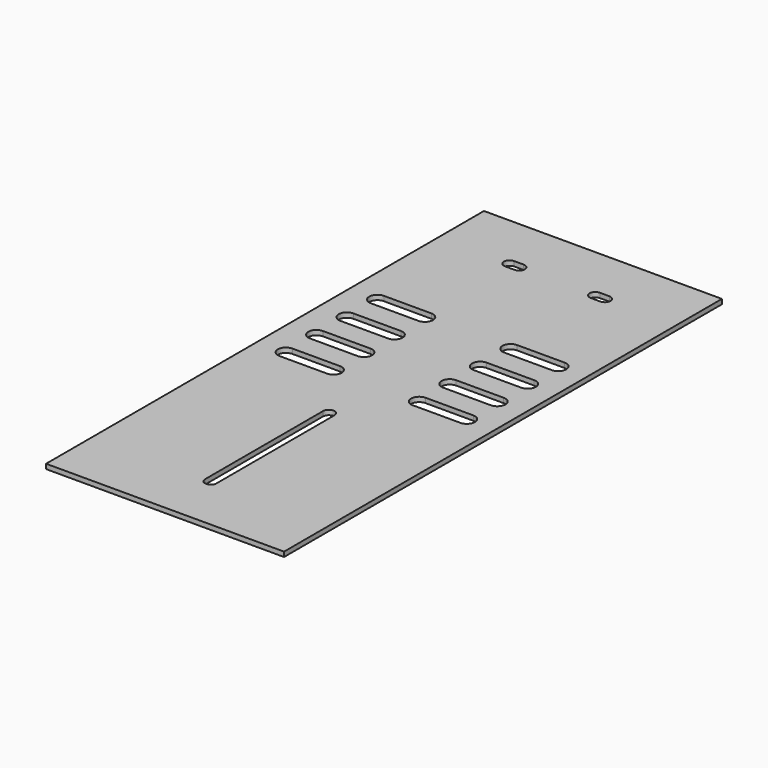
from build123d import *

# Parameters (mm, degrees)
F1_DEPTH = 1


with BuildPart() as f1:
    # F0 (on Top) → F1 (new body)
    with BuildSketch(Plane.XY):
        Polygon((25, 12), (0, 12), (-25, 12), (-25, -103), (25, -103), align=None)
        with BuildLine():
            ThreePointArc((-19, -49.2), (-20.7, -47.5), (-19, -45.8))
            Line((-19, -45.8), (-9, -45.8))
            ThreePointArc((-9, -45.8), (-7.3, -47.5), (-9, -49.2))
            Line((-9, -49.2), (-19, -49.2))
        make_face(mode=Mode.SUBTRACT)
        with BuildLine():
            ThreePointArc((1.2, -91), (0, -92.2), (-1.2, -91))
            Line((-1.2, -91), (-1.2, -60))
            ThreePointArc((-1.2, -60), (0, -58.8), (1.2, -60))
            Line((1.2, -60), (1.2, -91))
        make_face(mode=Mode.SUBTRACT)
        with BuildLine():
            ThreePointArc((19, -45.8), (20.7, -47.5), (19, -49.2))
            Line((19, -49.2), (9, -49.2))
            ThreePointArc((9, -49.2), (7.3, -47.5), (9, -45.8))
            Line((9, -45.8), (19, -45.8))
        make_face(mode=Mode.SUBTRACT)
        with BuildLine():
            ThreePointArc((-19, -41.2), (-20.7, -39.5), (-19, -37.8))
            Line((-19, -37.8), (-9, -37.8))
            ThreePointArc((-9, -37.8), (-7.3, -39.5), (-9, -41.2))
            Line((-9, -41.2), (-19, -41.2))
        make_face(mode=Mode.SUBTRACT)
        with BuildLine():
            ThreePointArc((-19, -33.2), (-20.7, -31.5), (-19, -29.8))
            Line((-19, -29.8), (-9, -29.8))
            ThreePointArc((-9, -29.8), (-7.3, -31.5), (-9, -33.2))
            Line((-9, -33.2), (-19, -33.2))
        make_face(mode=Mode.SUBTRACT)
        with BuildLine():
            ThreePointArc((-19, -25.2), (-20.7, -23.5), (-19, -21.8))
            Line((-19, -21.8), (-9, -21.8))
            ThreePointArc((-9, -21.8), (-7.3, -23.5), (-9, -25.2))
            Line((-9, -25.2), (-19, -25.2))
        make_face(mode=Mode.SUBTRACT)
        with BuildLine():
            ThreePointArc((-10, -1.2), (-11.2, 0), (-10, 1.2))
            Line((-10, 1.2), (-8, 1.2))
            ThreePointArc((-8, 1.2), (-6.8, 0), (-8, -1.2))
            Line((-8, -1.2), (-10, -1.2))
        make_face(mode=Mode.SUBTRACT)
        with BuildLine():
            ThreePointArc((9, -41.2), (7.3, -39.5), (9, -37.8))
            Line((9, -37.8), (19, -37.8))
            ThreePointArc((19, -37.8), (20.7, -39.5), (19, -41.2))
            Line((19, -41.2), (9, -41.2))
        make_face(mode=Mode.SUBTRACT)
        with BuildLine():
            ThreePointArc((9, -33.2), (7.3, -31.5), (9, -29.8))
            Line((9, -29.8), (19, -29.8))
            ThreePointArc((19, -29.8), (20.7, -31.5), (19, -33.2))
            Line((19, -33.2), (9, -33.2))
        make_face(mode=Mode.SUBTRACT)
        with BuildLine():
            ThreePointArc((9, -25.2), (7.3, -23.5), (9, -21.8))
            Line((9, -21.8), (19, -21.8))
            ThreePointArc((19, -21.8), (20.7, -23.5), (19, -25.2))
            Line((19, -25.2), (9, -25.2))
        make_face(mode=Mode.SUBTRACT)
        with BuildLine():
            ThreePointArc((10, 1.2), (11.2, 0), (10, -1.2))
            Line((10, -1.2), (8, -1.2))
            ThreePointArc((8, -1.2), (6.8, 0), (8, 1.2))
            Line((8, 1.2), (10, 1.2))
        make_face(mode=Mode.SUBTRACT)
    extrude(amount=-F1_DEPTH)


solid = f1.part
